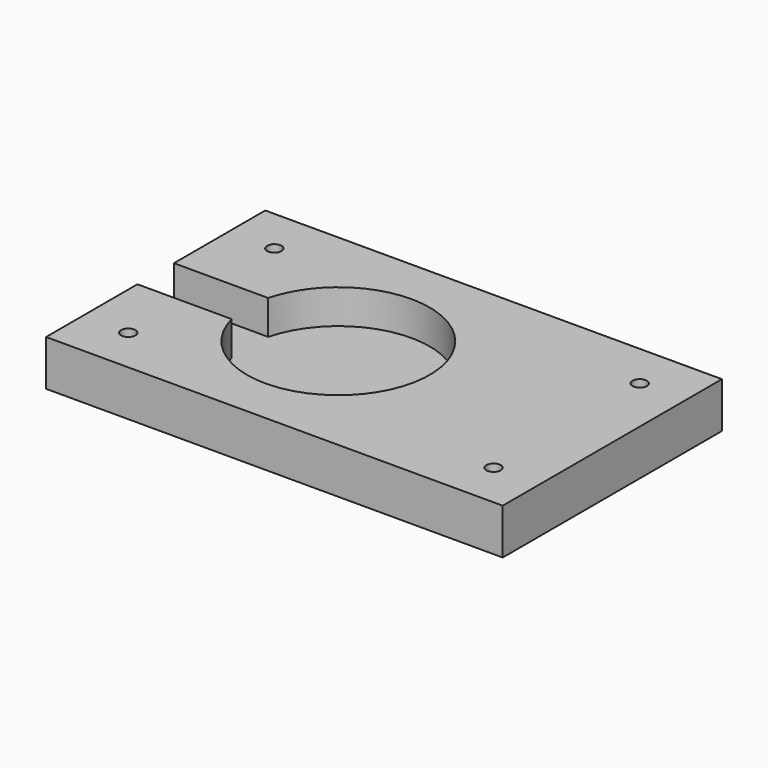
from build123d import *

# Parameters (mm, degrees)
SKETCH_W                = 254
SKETCH_H                = 152.4
PAD_DEPTH               = 25.4
SKETCH001_R             = 4
POCKET_DEPTH            = 619.999755
SKETCH001_MIRRORED_2_R  = 4
POCKET_MIRRORED_2_DEPTH = 619.999755
POCKET001_DEPTH         = 19.05


with BuildPart() as part:
    # Sketch → Pad (new body)
    with BuildSketch(Plane.XY):
        Rectangle(SKETCH_W, SKETCH_H)
    extrude(amount=PAD_DEPTH)

    # Sketch001 (on Face6 of Pad) → Pocket (cut, through all)
    with BuildSketch(Plane.XY.offset(25.4)):
        with Locations((-101.6, 50.8)):
            Circle(SKETCH001_R)
    pocket = extrude(amount=-POCKET_DEPTH, mode=Mode.SUBTRACT)

    # Sketch001 Mirrored 2 → Pocket Mirrored 2 (cut, through all)
    with BuildSketch(Plane(origin=(0, 0, 25.4), x_dir=(-1, 0, 0), z_dir=(0, 0, -1))):
        with Locations((-101.6, 50.8)):
            Circle(SKETCH001_MIRRORED_2_R)
    pocket_mirrored_2 = extrude(amount=POCKET_MIRRORED_2_DEPTH, mode=Mode.SUBTRACT)

    # Mirrored001: Pocket, Pocket Mirrored 2 across XZ
    add(pocket.mirror(Plane.XZ), mode=Mode.SUBTRACT)
    add(pocket_mirrored_2.mirror(Plane.XZ), mode=Mode.SUBTRACT)

    # Sketch002 (on Face5 of MultiTransform) → Pocket001 (cut)
    with BuildSketch(Plane.XY.offset(25.4)):
        with BuildLine():
            Line((-127, -12.7), (-74.586888, -12.7))
            ThreePointArc((-74.586888, -12.7), (25.4, 0), (-74.586888, 12.7))
            Line((-74.586888, 12.7), (-127, 12.7))
            Line((-127, 12.7), (-127, -12.7))
        make_face()
    extrude(amount=-POCKET001_DEPTH, mode=Mode.SUBTRACT)


solid = part.part
